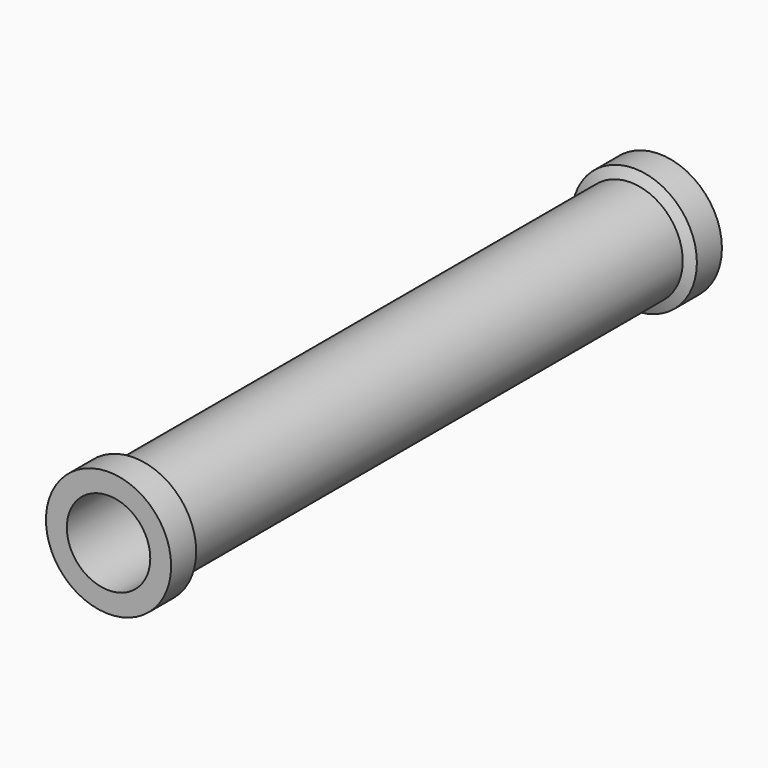
from build123d import *

# Parameters (mm, degrees)
F0_R     = 19.05
F0_R_2   = 12.7
F1_DEPTH = 152.4
F2_DEPTH = 57.15


with BuildPart() as f1:
    # F0 (on Front) → F1 (new body)
    with BuildSketch(Plane.XZ):
        Circle(F0_R)
        Circle(F0_R_2, mode=Mode.SUBTRACT)
    extrude(amount=F1_DEPTH)

    # F2 (add): a face of the model
    f2_faces = [f1.faces().sort_by_distance(p)[0] for p in [
        (-18.5111846327, -152.4, 0),
    ]]
    extrude(f2_faces, amount=F2_DEPTH)

    # F3 (on Right) → F4 (revolve, cut)
    with BuildSketch(Plane.YZ):
        Polygon((-11.023053821, 15.9428958603), (-6.3529792242, 25.6566461176), (-203.1970207758, 25.6566461176), (-198.526946179, 15.9428958603), align=None)
    revolve(axis=Axis((0, -209.55, 0), (0, -1, 0)), mode=Mode.SUBTRACT)


solid = f1.part
